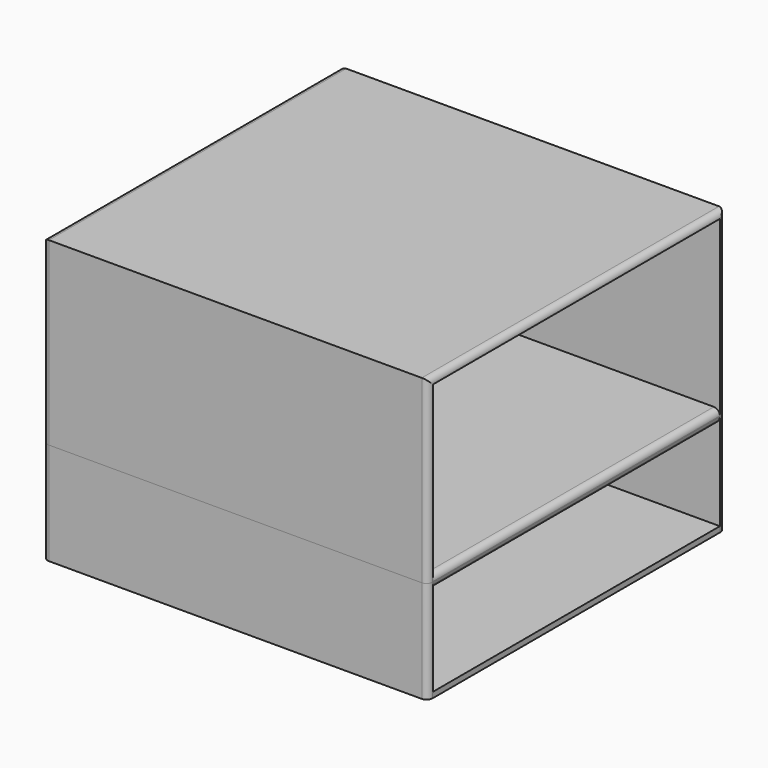
from build123d import *

# Parameters (mm, degrees)
F1_DEPTH = 320
F2_R     = 5


with BuildPart() as f1:
    # F0 (on Right) → F1 (new body)
    with BuildSketch(Plane.YZ):
        Polygon((-139.003939, 150), (-139.003939, 0), (50.744042, 0), (169.99323, 0), (169.996061, 150), align=None)
        Polygon((164.619565, 5.37504), (50.744042, 5.37504), (-133.629165, 5.37504), (-133.629165, 144.62496), (164.619565, 144.62496), align=None, mode=Mode.SUBTRACT)
        Polygon((-139.003939, 0), (-139.00677, -85), (169.99323, -85), (169.99323, 0), (50.744042, 0), align=None)
        Polygon((-133.679732, -5.37504), (50.744042, -5.37504), (164.619565, -5.37504), (164.619565, -80.37504), (-133.54818, -80.365109), align=None, mode=Mode.SUBTRACT)
    extrude(amount=F1_DEPTH)

    # F2
    f2_edges = [f1.edges().sort_by_distance(p)[0] for p in [
        (320, -139.003939, 75),
        (320, -139.005354, -42.5),
        (320, 169.99323, -42.5),
        (320, 169.994646, 75),
        (0, -139.005354, -42.5),
        (0, -139.003939, 75),
        (0, 169.99323, -42.5),
        (0, 169.994646, 75),
        (0, 15.496061, 150),
        (320, 15.496061, 150),
        (320, 15.4952, 5.37504),
        (320, 15.469916, -5.37504),
        (0, 15.4952, 5.37504),
        (0, 15.469916, -5.37504),
    ]]
    fillet(f2_edges, radius=F2_R)


solid = f1.part
